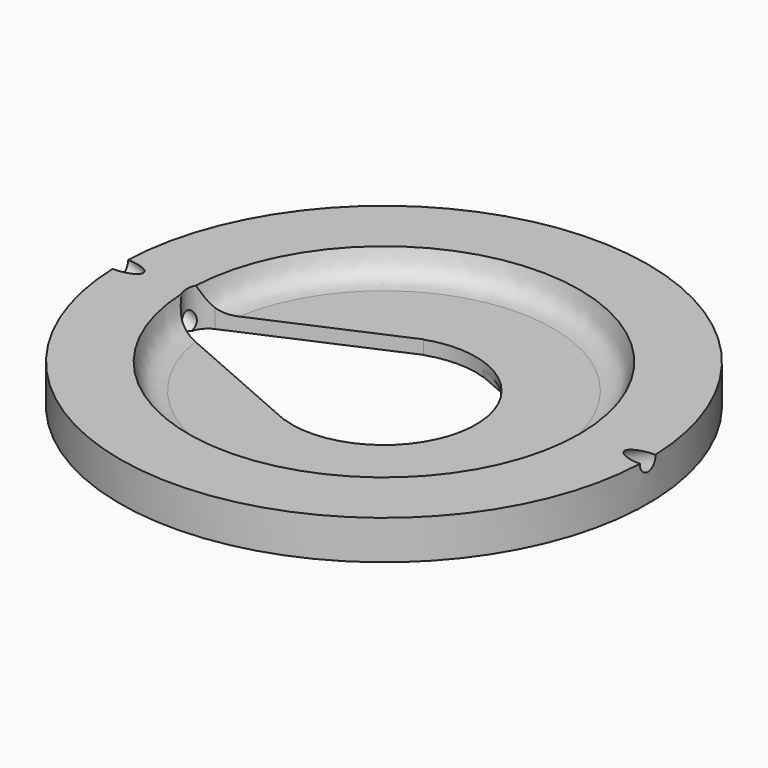
from build123d import *

# Parameters (mm, degrees)
F3_DEPTH = 0.35
F4_DEPTH = 5


with BuildPart() as f1:
    # F0 (on Front) → F1 (revolve)
    with BuildSketch(Plane.XZ):
        with BuildLine():
            add(Edge.make_bspline(
                [(-10, 2), (-9.8134251311, 1.2643112568), (-9.5979757607, 0.7219304822), (-8.6464062333, 0.7)],
                knots=[0, 0, 0, 0, 1.8767567997, 1.8767567997, 1.8767567997, 1.8767567997], degree=3))
            Line((-10, 2), (-13.5, 2))
            Line((-13.5, 2), (-13.5, 0))
            Line((-13.5, 0), (-4.7, 0))
            Line((-4.7, 0), (-4.7, 0.7))
            Line((-4.7, 0.7), (-8.6464062333, 0.7))
        make_face()
    revolve(axis=Axis((0, 0, 0.3460962325), (0, 0, -1)))

    # F2 (on Top) → F3 (cut)
    with BuildSketch(Plane.XY):
        with BuildLine():
            Line((9.4376522897, 1), (1.5316589494, 4.4600760879))
            Line((1.5316589494, 4.4600760879), (1.5316589494, -4.4600760879))
            Line((1.5316589494, -4.4600760879), (9.4376522897, -1))
            ThreePointArc((9.4376522897, -1), (10.0915766243, 0), (9.4376522897, 1))
        make_face()
    extrude(amount=F3_DEPTH, mode=Mode.SUBTRACT)

    # F2 (on Top) → F4 (cut)
    with BuildSketch(Plane.XY):
        with BuildLine():
            Line((-1.5316589494, -4.4600760879), (-1.5316589494, 4.4600760879))
            Line((-1.5316589494, 4.4600760879), (-9.4376522897, 1))
            ThreePointArc((-9.4376522897, 1), (-10.0915766243, 0), (-9.4376522897, -1))
            Line((-9.4376522897, -1), (-1.5316589494, -4.4600760879))
        make_face()
    extrude(amount=F4_DEPTH, mode=Mode.SUBTRACT)

    # F5 (on Front) → F6 (revolve, cut)
    with BuildSketch(Plane.XZ):
        Polygon((7.8459653944, 0.038968916), (9, 0), (13.550709933, 2), (13.3823033062, 2.4721443956), align=None)
    revolve(axis=Axis((11.2753549665, 0, 1), (0.9154864336, 0, 0.402348841)), mode=Mode.SUBTRACT)

    # F5 (on Front) → F7 (revolve, cut)
    with BuildSketch(Plane.XZ):
        Polygon((-13.3823033062, 2.4721443956), (-13.550709933, 2), (-9, 0), (-7.8459653944, 0.038968916), align=None)
    revolve(axis=Axis((-11.2753549665, 0, 1), (-0.9154864336, 0, 0.402348841)), mode=Mode.SUBTRACT)


solid = f1.part
